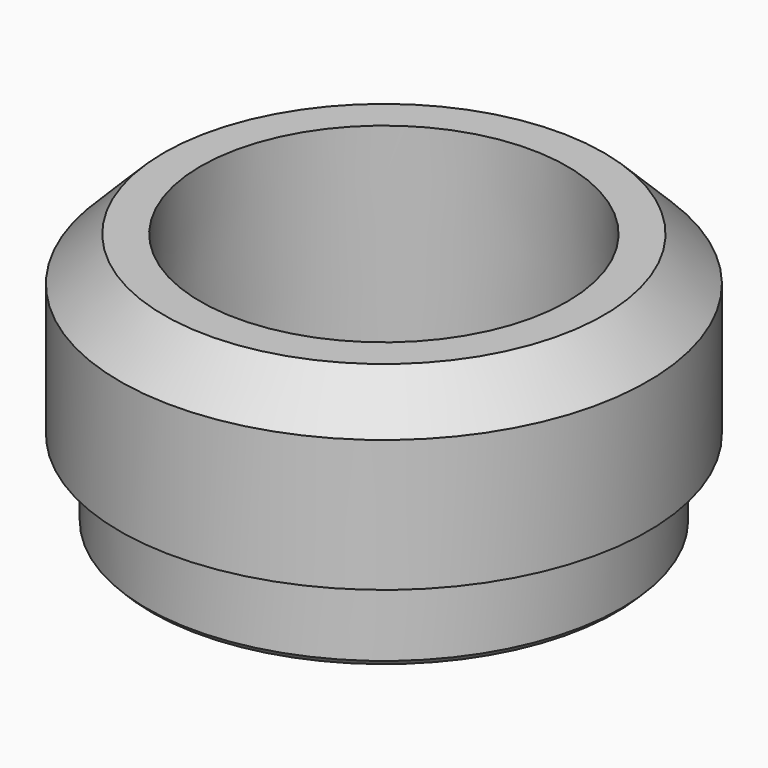
from build123d import *

# Parameters (mm, degrees)
CHAMFER_SIZE    = 0.75
CHAMFER001_SIZE = 0.3
CHAMFER002_SIZE = 0.1


with BuildPart() as part:
    # Sketch → Revolution (revolve)
    with BuildSketch(Plane.XZ):
        Polygon((-4.5, 0), (-4.5, 3), (-3.125, 3), (-3.25, -1.4), (-4.05, -1.4), (-4.05, 0), align=None)
    revolve(axis=Axis((0, 0, 0), (0, 0, 1)))

    # Chamfer
    chamfer_edges = [part.edges().sort_by_distance(p)[0] for p in [
        (4.5, 0, 3),
    ]]
    chamfer(chamfer_edges, length=CHAMFER_SIZE)

    # Chamfer001
    chamfer001_edges = [part.edges().sort_by_distance(p)[0] for p in [
        (3.25, 0, -1.4),
    ]]
    chamfer(chamfer001_edges, length=CHAMFER001_SIZE)

    # Chamfer002
    chamfer002_edges = [part.edges().sort_by_distance(p)[0] for p in [
        (4.05, 0, -1.4),
    ]]
    chamfer(chamfer002_edges, length=CHAMFER002_SIZE)


solid = part.part
